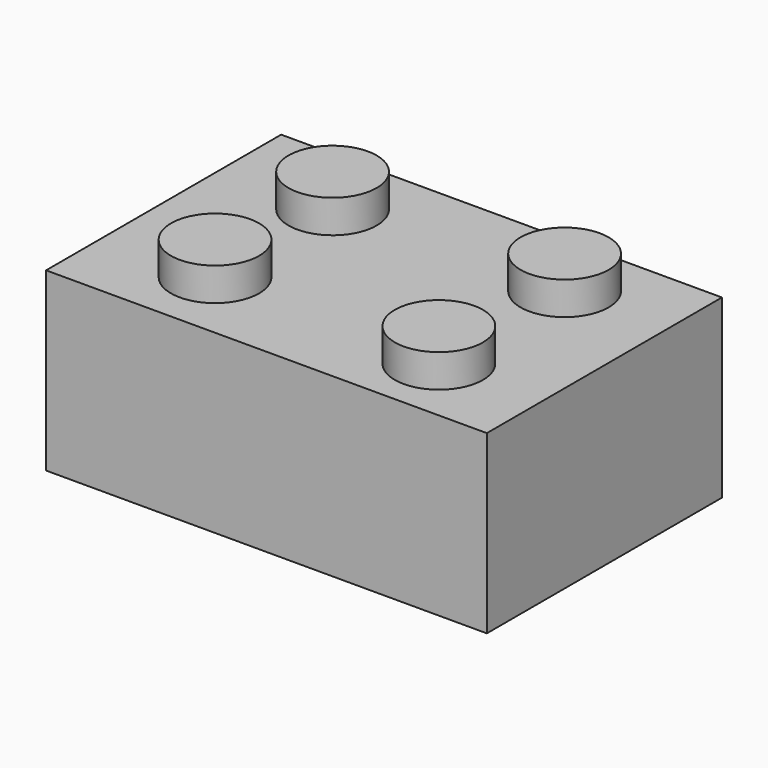
from build123d import *

# Parameters (mm, degrees)
F0_W     = 24.003
F0_H     = 16.002
F1_DEPTH = 9.6
F2_R     = 2.4
F3_DEPTH = 1.8


with BuildPart() as f1:
    # F0 (on Top) → F1 (new body)
    with BuildSketch(Plane.XY):
        with Locations((-12.0015, 8.001)):
            Rectangle(F0_W, F0_H)
    extrude(amount=F1_DEPTH)


with BuildPart() as f3:
    # F2 (on face) → F3 (new body)
    with BuildSketch(Plane.XY.offset(9.6)):
        with Locations((-18.00225, 12.0015)):
            Circle(F2_R)
        with Locations((-5.589194, 12.279313)):
            Circle(F2_R)
        with Locations((-18.00225, 4.0005)):
            Circle(F2_R)
        with Locations((-5.589194, 3.722687)):
            Circle(F2_R)
    extrude(amount=F3_DEPTH)


solid = Compound([f1.part, f3.part])
